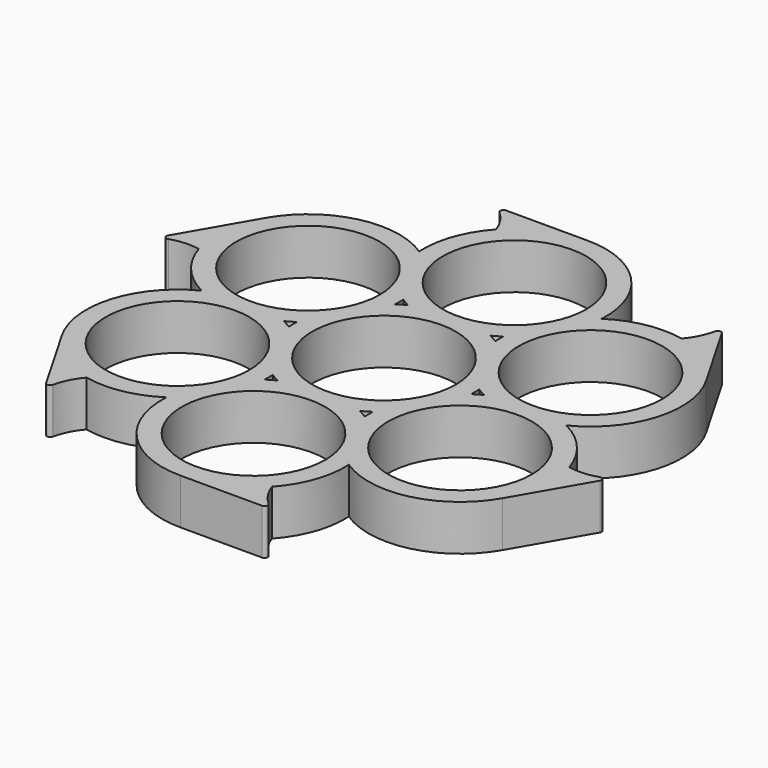
from build123d import *

# Parameters (mm, degrees)
F0_R     = 11
F1_DEPTH = 7


with BuildPart() as f1:
    # F0 (on Top) → F1 (new body)
    with BuildSketch(Plane.XY):
        with BuildLine():
            ThreePointArc((-10.362367, 34.413892), (-13.196178, 29.675563), (-13.977698, 24.210082))
            ThreePointArc((-13.977698, 24.210082), (-24.891005, 26.119838), (-33.774991, 19.5))
            ThreePointArc((-33.774991, 19.5), (-35.570661, 13.994279), (-34.984488, 8.232873))
            ThreePointArc((-34.984488, 8.232873), (-32.29788, 3.409556), (-27.955395, 0))
            ThreePointArc((-27.955395, 0), (-35.065946, -8.496324), (-33.774991, -19.5))
            ThreePointArc((-33.774991, -19.5), (-29.904732, -23.807957), (-24.622121, -26.181019))
            ThreePointArc((-24.622121, -26.181019), (-19.101702, -26.266007), (-13.977698, -24.210082))
            ThreePointArc((-13.977698, -24.210082), (-10.174941, -34.616162), (0, -39))
            ThreePointArc((0, -39), (5.665929, -37.802236), (10.362367, -34.413892))
            ThreePointArc((10.362367, -34.413892), (13.196178, -29.675563), (13.977698, -24.210082))
            ThreePointArc((13.977698, -24.210082), (24.891005, -26.119838), (33.774991, -19.5))
            ThreePointArc((33.774991, -19.5), (35.570661, -13.994279), (34.984488, -8.232873))
            ThreePointArc((34.984488, -8.232873), (32.29788, -3.409556), (27.955395, 0))
            ThreePointArc((27.955395, 0), (35.065946, 8.496324), (33.774991, 19.5))
            ThreePointArc((33.774991, 19.5), (29.904732, 23.807957), (24.622121, 26.181019))
            ThreePointArc((24.622121, 26.181019), (19.101702, 26.266007), (13.977698, 24.210082))
            ThreePointArc((13.977698, 24.210082), (10.174941, 34.616162), (0, 39))
            ThreePointArc((0, 39), (-5.665929, 37.802236), (-10.362367, 34.413892))
        make_face()
        with Locations((-21.650635, -12.5)):
            Circle(F0_R, mode=Mode.SUBTRACT)
        with BuildLine():
            ThreePointArc((-6.30476, -12.5), (-7, -12.875644), (-7.672937, -13.289918))
            ThreePointArc((-7.672937, -13.289918), (-7.650635, -12.5), (-7.672937, -11.710082))
            ThreePointArc((-7.672937, -11.710082), (-7, -12.124356), (-6.30476, -12.5))
        make_face(mode=Mode.SUBTRACT)
        with Locations((0, -25)):
            Circle(F0_R, mode=Mode.SUBTRACT)
        with BuildLine():
            ThreePointArc((7.672937, -11.710082), (7.650635, -12.5), (7.672937, -13.289918))
            ThreePointArc((7.672937, -13.289918), (7, -12.875644), (6.30476, -12.5))
            ThreePointArc((6.30476, -12.5), (7, -12.124356), (7.672937, -11.710082))
        make_face(mode=Mode.SUBTRACT)
        with Locations((21.650635, -12.5)):
            Circle(F0_R, mode=Mode.SUBTRACT)
        with Locations((-21.650635, 12.5)):
            Circle(F0_R, mode=Mode.SUBTRACT)
        with BuildLine():
            ThreePointArc((-15.345875, 0), (-14.650635, 0.375644), (-13.977698, 0.789918))
            ThreePointArc((-13.977698, 0.789918), (-14, 0), (-13.977698, -0.789918))
            ThreePointArc((-13.977698, -0.789918), (-14.650635, -0.375644), (-15.345875, 0))
        make_face(mode=Mode.SUBTRACT)
        with BuildLine():
            ThreePointArc((-7.672937, 11.710082), (-7.650635, 12.5), (-7.672937, 13.289918))
            ThreePointArc((-7.672937, 13.289918), (-7, 12.875644), (-6.30476, 12.5))
            ThreePointArc((-6.30476, 12.5), (-7, 12.124356), (-7.672937, 11.710082))
        make_face(mode=Mode.SUBTRACT)
        Circle(F0_R, mode=Mode.SUBTRACT)
        with BuildLine():
            ThreePointArc((13.977698, -0.789918), (14, 0), (13.977698, 0.789918))
            ThreePointArc((13.977698, 0.789918), (14.650635, 0.375644), (15.345875, 0))
            ThreePointArc((15.345875, 0), (14.650635, -0.375644), (13.977698, -0.789918))
        make_face(mode=Mode.SUBTRACT)
        with BuildLine():
            ThreePointArc((6.30476, 12.5), (7, 12.875644), (7.672937, 13.289918))
            ThreePointArc((7.672937, 13.289918), (7.650635, 12.5), (7.672937, 11.710082))
            ThreePointArc((7.672937, 11.710082), (7, 12.124356), (6.30476, 12.5))
        make_face(mode=Mode.SUBTRACT)
        with Locations((21.650635, 12.5)):
            Circle(F0_R, mode=Mode.SUBTRACT)
        with Locations((0, 25)):
            Circle(F0_R, mode=Mode.SUBTRACT)
        with BuildLine():
            ThreePointArc((-34.984488, 8.232873), (-35.570661, 13.994279), (-33.774991, 19.5))
            Line((-33.774991, 19.5), (-40.018085, 8.686644))
            ThreePointArc((-40.018085, 8.686644), (-39.972979, 8.121164), (-39.428556, 7.961773))
            ThreePointArc((-39.428556, 7.961773), (-37.224068, 8.384953), (-34.984488, 8.232873))
        make_face()
        with BuildLine():
            ThreePointArc((-12.81918, 38.127017), (-11.350452, 36.429465), (-10.362367, 34.413892))
            ThreePointArc((-10.362367, 34.413892), (-5.665929, 37.802236), (0, 39))
            Line((0, 39), (-12.486188, 39))
            ThreePointArc((-12.486188, 39), (-12.953356, 38.678197), (-12.81918, 38.127017))
        make_face()
        with BuildLine():
            ThreePointArc((-24.622121, -26.181019), (-29.904732, -23.807957), (-33.774991, -19.5))
            Line((-33.774991, -19.5), (-27.531897, -30.313356))
            ThreePointArc((-27.531897, -30.313356), (-27.019624, -30.557034), (-26.609375, -30.165244))
            ThreePointArc((-26.609375, -30.165244), (-25.873616, -28.044512), (-24.622121, -26.181019))
        make_face()
        with BuildLine():
            ThreePointArc((26.609375, 30.165244), (25.873616, 28.044512), (24.622121, 26.181019))
            ThreePointArc((24.622121, 26.181019), (29.904732, 23.807957), (33.774991, 19.5))
            Line((33.774991, 19.5), (27.531897, 30.313356))
            ThreePointArc((27.531897, 30.313356), (27.019624, 30.557034), (26.609375, 30.165244))
        make_face()
        with BuildLine():
            ThreePointArc((10.362367, -34.413892), (5.665929, -37.802236), (0, -39))
            Line((0, -39), (12.486188, -39))
            ThreePointArc((12.486188, -39), (12.953356, -38.678197), (12.81918, -38.127017))
            ThreePointArc((12.81918, -38.127017), (11.350452, -36.429465), (10.362367, -34.413892))
        make_face()
        with BuildLine():
            ThreePointArc((39.428556, -7.961773), (37.224068, -8.384953), (34.984488, -8.232873))
            ThreePointArc((34.984488, -8.232873), (35.570661, -13.994279), (33.774991, -19.5))
            Line((33.774991, -19.5), (40.018085, -8.686644))
            ThreePointArc((40.018085, -8.686644), (39.972979, -8.121164), (39.428556, -7.961773))
        make_face()
    extrude(amount=F1_DEPTH)


solid = f1.part
